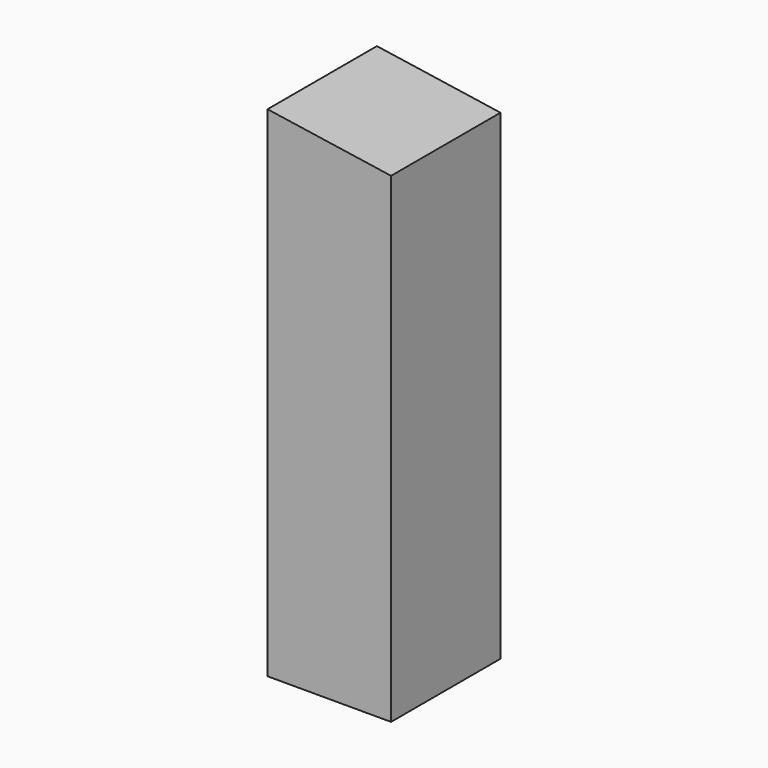
from build123d import *

# Parameters (mm, degrees)
F0_W     = 23.5558673739
F0_H     = 26.0745957494
F1_DEPTH = 95.2
F3_DEPTH = 30


with BuildPart() as f1:
    # F0 (on Top) → F1 (new body)
    with BuildSketch(Plane.XY):
        with Locations((-53.1461425126, -48.8208979368)):
            Rectangle(F0_W, F0_H)
    extrude(amount=F1_DEPTH)

    # F2 (on face) → F3 (cut)
    with BuildSketch(Plane.XZ.offset(61.8581958115)):
        Polygon((-41.3682088256, 95.2), (-64.9240761995, 95.2), (-41.3682088256, 91.6795520333), align=None)
    extrude(amount=-F3_DEPTH, mode=Mode.SUBTRACT)


solid = f1.part
